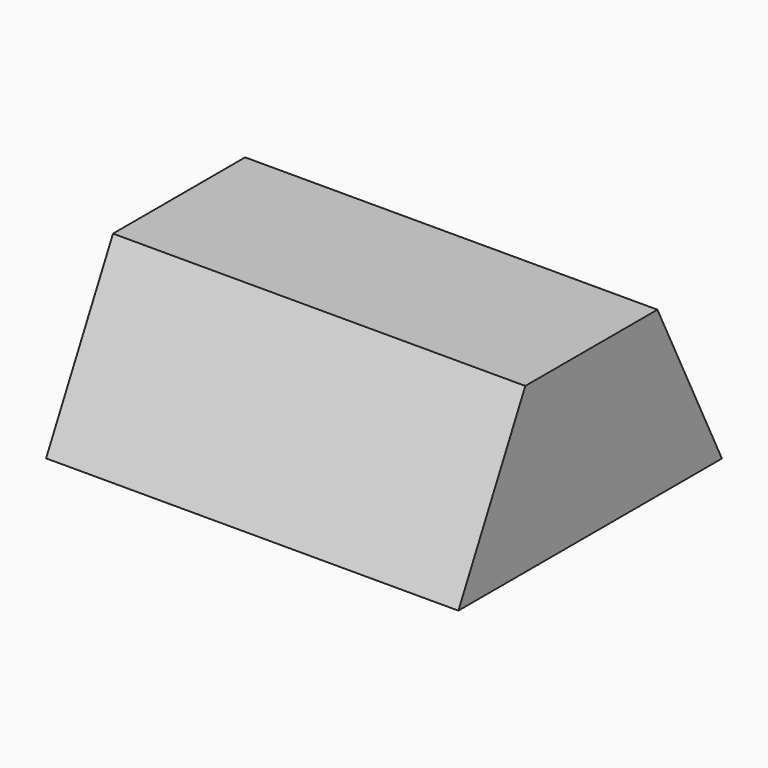
from build123d import *

# Parameters (mm, degrees)
PAD_DEPTH = 100


with BuildPart() as part:
    # Sketch → Pad (new body)
    with BuildSketch(Plane.YZ):
        Polygon((-40.135509, 9.952005), (-19.849283, 49.691944), (20.206043, 49.691944), (39.760628, 9.952005), align=None)
    extrude(amount=PAD_DEPTH)


solid = part.part
